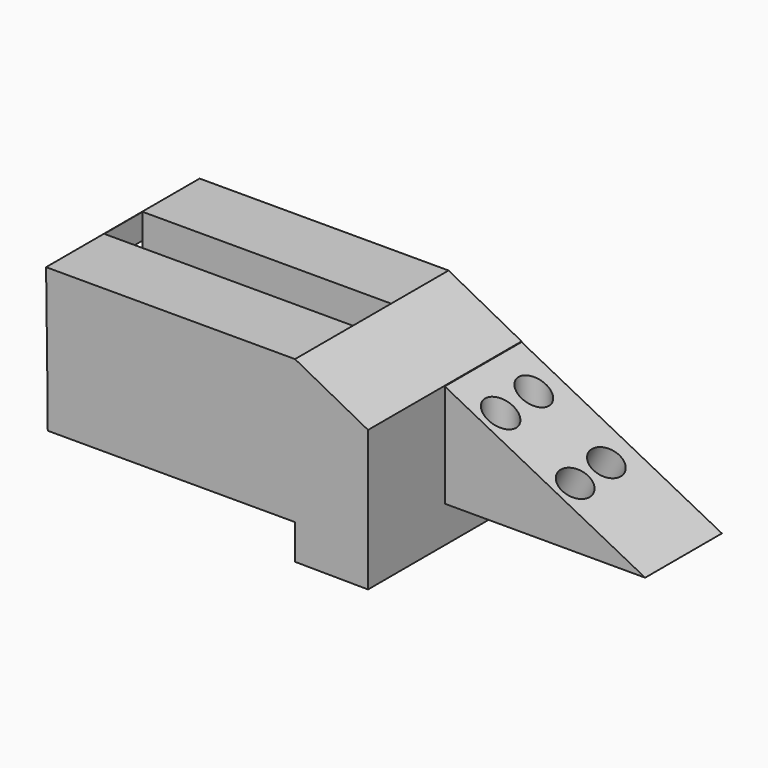
from build123d import *

# Parameters (mm, degrees)
F0_W      = 65.485179
F0_H      = 37.281514
F1_DEPTH  = 50.8
F2_DEPTH  = 25.4
F4_DEPTH  = 50.8
F5_DEPTH  = 25.4
F6_W      = 65.805174
F6_H      = 12.657734
F7_DEPTH  = 38.1
F8_R      = 4.088861
F8_R_2    = 4.00946
F8_R_3    = 3.015148
F8_R_4    = 3.207559
F9_DEPTH  = 50.8
F10_R     = 4.296348
F10_R_2   = 4.287756
F11_DEPTH = 25.4


with BuildPart() as f1:
    # F0 (on Front) → F1 (new body)
    with BuildSketch(Plane.XZ):
        with Locations((-32.74259, 3.37556)):
            Rectangle(F0_W, F0_H)
        Polygon((19.307569, 12.089744), (0, 22.016317), (0, -15.265197), (0, -24.720937), (19.307569, -24.720937), (19.307569, -15.265197), align=None)
    extrude(amount=F1_DEPTH)

    # F0 (on Front) → F2 (join)
    with BuildSketch(Plane.XZ):
        Polygon((72.358251, -15.265197), (19.307569, 12.089744), (19.307569, -15.265197), (64.418688, -15.265197), align=None)
    extrude(amount=F2_DEPTH)

    # F3 (on Front) → F4 (join)
    with BuildSketch(Plane.XZ):
        Polygon((0, 22.467867), (-65.891236, 22.467867), (-65.404281, -15.514851), (0, -15.514851), align=None)
        Polygon((19.326396, 12.241751), (0, 22.467867), (0, -15.514851), (0, -24.767056), (19.326396, -24.929374), (19.326396, -15.677169), align=None)
    extrude(amount=F4_DEPTH)

    # F0 (on Front) → F5 (join)
    with BuildSketch(Plane.XZ):
        Polygon((72.358251, -15.265197), (19.307569, 12.089744), (19.307569, -15.265197), (64.418688, -15.265197), align=None)
    extrude(amount=F5_DEPTH)

    # F6 (on Top) → F7 (cut)
    with BuildSketch(Plane.XY):
        with Locations((-32.902587, -25.323051)):
            Rectangle(F6_W, F6_H)
    extrude(amount=F7_DEPTH, mode=Mode.SUBTRACT)

    # F8 (on Top) → F9 (cut)
    with BuildSketch(Plane.XY):
        with Locations((29.517371, -19.660087)):
            Circle(F8_R)
        with Locations((29.071776, -8.137451)):
            Circle(F8_R_2)
        with Locations((55.278175, -19.761529)):
            Circle(F8_R_3)
        with Locations((54.863308, -8.436291)):
            Circle(F8_R_4)
    extrude(amount=F9_DEPTH, mode=Mode.SUBTRACT)

    # F10 (on face) → F11 (cut)
    with BuildSketch(Plane(origin=(8.979881, 0, 17.415091), x_dir=(0.888799, 0, -0.458298), z_dir=(0.458298, 0, 0.888799))):
        with Locations((45.114581, -19.458767)):
            Circle(F10_R)
        with Locations((44.607103, -8.562293)):
            Circle(F10_R_2)
    extrude(amount=-F11_DEPTH, mode=Mode.SUBTRACT)


solid = f1.part
